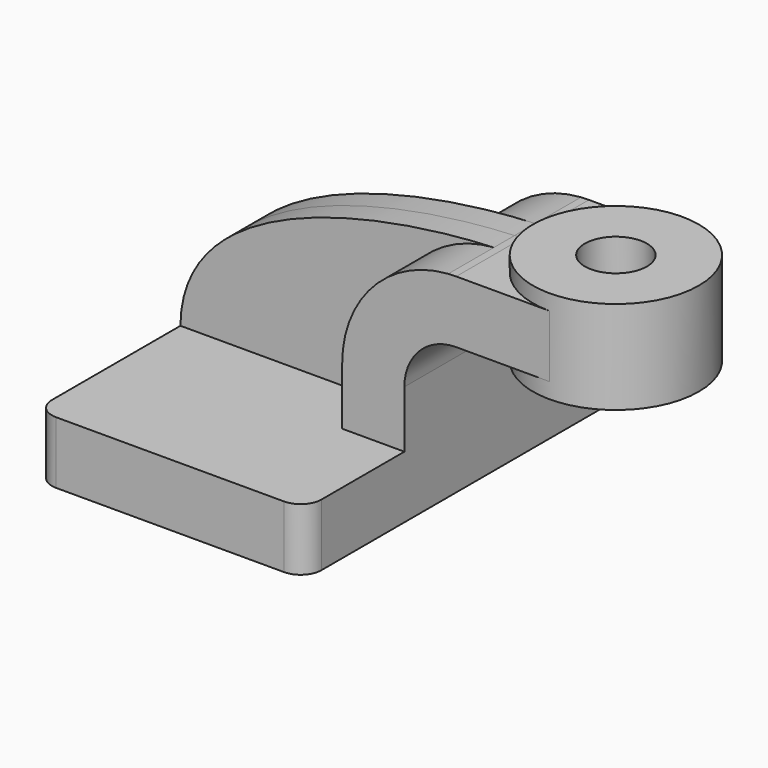
from build123d import *

# Parameters (mm, degrees)
F1_DEPTH = 63.5
F0_W     = 25.4
F0_H     = 19.05
F2_DEPTH = 25.4
F3_DEPTH = 7.93877
F5_R     = 6.35
F6_R     = 9.5053292978
F7_DEPTH = 76.201


with BuildPart() as f1:
    # F0 (on Front) → F1 (new body, symmetric)
    with BuildSketch(Plane.XZ):
        Polygon((-41.275, 9.525), (-41.275, -9.525), (41.275, -9.525), (41.275, 9.525), (22.225, 9.525), align=None)
    extrude(amount=F1_DEPTH, both=True)

    # F0 (on Front) → F2 (join, symmetric)
    with BuildSketch(Plane.XZ):
        with BuildLine():
            Line((22.225, 9.525), (41.275, 9.525))
            Line((41.275, 9.525), (41.275, 27.0002))
            ThreePointArc((41.275, 27.0002), (45.9246798487, 38.2255201513), (57.15, 42.8752))
            Line((57.15, 42.8752), (60.325, 42.8752))
            Line((60.325, 42.8752), (60.325, 61.9252))
            Line((60.325, 61.9252), (57.15, 61.9252))
            add(Edge.make_bspline(
                [(54.708328664, 61.8397445735), (55.5395879025, 61.8742149173), (56.3539214697, 61.9026112265), (57.15, 61.9252)],
                knots=[108.8295535242, 108.8295535242, 108.8295535242, 108.8295535242, 111.5045361635, 111.5045361635, 111.5045361635, 111.5045361635], degree=3))
            ThreePointArc((54.708328664, 61.8397445735), (31.6056170909, 50.8170034546), (22.225, 27.0002))
            Line((22.225, 27.0002), (22.225, 9.525))
        make_face()
        with Locations((73.025, 52.4002)):
            Rectangle(F0_W, F0_H)
    extrude(amount=F2_DEPTH, both=True)

    # F0 (on Front) → F3 (join, symmetric)
    with BuildSketch(Plane.XZ):
        with BuildLine():
            add(Edge.make_bspline(
                [(-41.275, 9.525), (-40.9453748727, 48.9811753605), (20.8892038364, 60.4373458913), (54.708328664, 61.8397445735)],
                knots=[0, 0, 0, 0, 108.8295535242, 108.8295535242, 108.8295535242, 108.8295535242], degree=3))
            Line((-41.275, 9.525), (22.225, 9.525))
            Line((22.225, 9.525), (22.225, 27.0002))
            ThreePointArc((22.225, 27.0002), (31.6056170909, 50.8170034546), (54.708328664, 61.8397445735))
        make_face()
    extrude(amount=F3_DEPTH, both=True)

    # F0 (on Front) → F4 (revolve)
    with BuildSketch(Plane.XZ):
        Polygon((85.725, 66.675), (85.725, 61.9252), (85.725, 42.8752), (85.725, 38.1), (111.125, 38.1), (111.125, 66.675), align=None)
    revolve(axis=Axis((85.725, 0, 52.3875), (0, 0, 1)))

    # F5
    f5_edges = [f1.edges().sort_by_distance(p)[0] for p in [
        (-41.275, -63.5, 0),
        (41.275, -63.5, 0),
        (41.275, 63.5, 0),
        (-41.275, 63.5, 0),
    ]]
    fillet(f5_edges, radius=F5_R)

    # F6 (on face) → F7 (cut, through all)
    with BuildSketch(Plane.XY.offset(66.675)):
        with Locations((85.725, 0)):
            Circle(F6_R)
    extrude(amount=-F7_DEPTH, mode=Mode.SUBTRACT)


solid = f1.part
